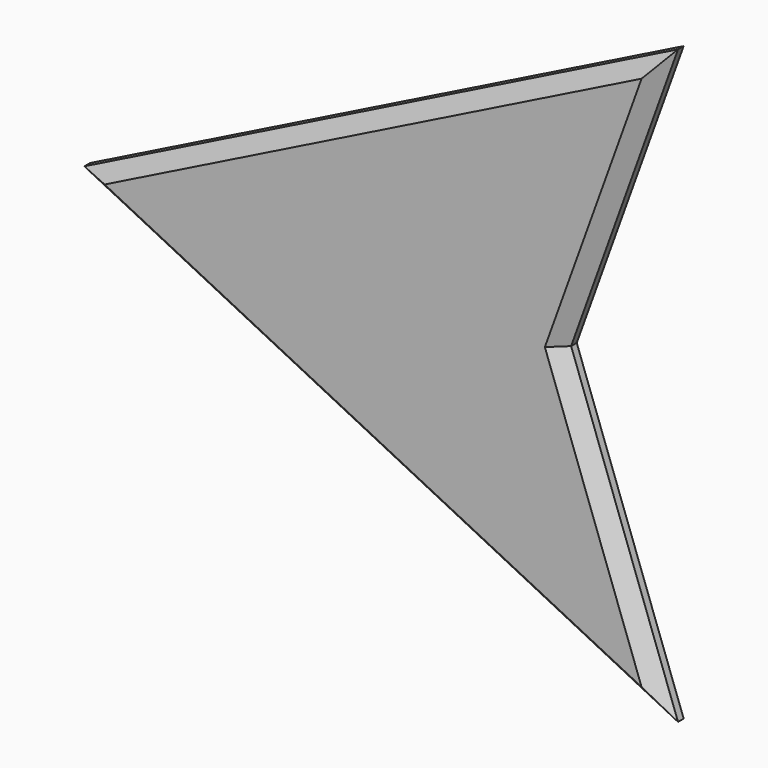
from build123d import *

# Parameters (mm, degrees)
F1_DEPTH = 3.81
F2_SIZE  = 2.54


with BuildPart() as f1:
    # F0 (on Front) → F1 (new body)
    with BuildSketch(Plane.XZ):
        Polygon((47.919657, 53.38797), (-59.144083, 0), (47.919657, -53.38797), (28.636672, 0), align=None)
    extrude(amount=F1_DEPTH)

    # F2
    f2_edges = [f1.edges().sort_by_distance(p)[0] for p in [
        (-5.612213, -3.81, 26.693985),
        (-5.612213, -3.81, -26.693985),
        (38.278164, -3.81, 26.693985),
        (38.278164, -3.81, -26.693985),
    ]]
    chamfer(f2_edges, length=F2_SIZE)


solid = f1.part
